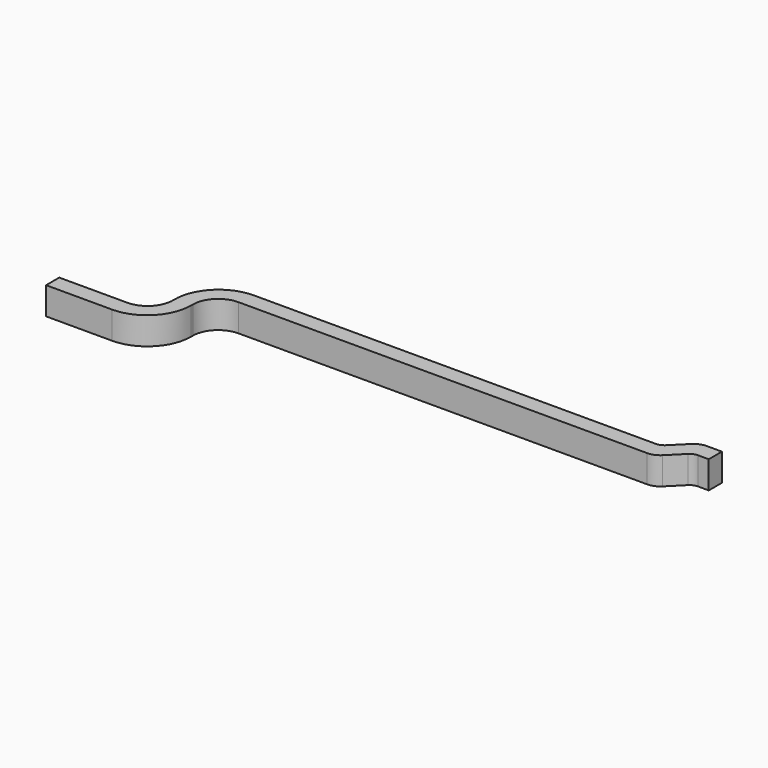
from build123d import *

# Parameters (mm, degrees)
PAD_DEPTH = 0.125


with BuildPart() as part:
    # Sketch → Pad (new body, symmetric)
    with BuildSketch(Plane.XY):
        with BuildLine():
            Line((0, 0), (0.6, 0))
            ThreePointArc((0.6, 0), (0.882843, 0.117157), (1, 0.4))
            Line((1, 0.419076), (1, 0.4))
            ThreePointArc((1.230924, 0.65), (1.067636, 0.582364), (1, 0.419076))
            Line((4.95, 0.65), (1.230924, 0.65))
            ThreePointArc((4.95, 0.65), (5.007403, 0.661418), (5.056066, 0.693934))
            Line((5.056066, 0.693934), (5.182843, 0.820711))
            ThreePointArc((5.253553, 0.85), (5.215285, 0.842388), (5.182843, 0.820711))
            Line((5.253553, 0.85), (5.35, 0.85))
            Line((5.35, 0.85), (5.35, 1))
            Line((5.35, 1), (5.212132, 1))
            ThreePointArc((5.212132, 1), (5.15473, 0.988582), (5.106066, 0.956066))
            Line((4.979289, 0.829289), (5.106066, 0.956066))
            ThreePointArc((4.908579, 0.8), (4.946847, 0.807612), (4.979289, 0.829289))
            Line((1.249817, 0.8), (4.908579, 0.8))
            ThreePointArc((1.249817, 0.8), (0.96273, 0.678534), (0.85, 0.387906))
            ThreePointArc((0.619181, 0.15), (0.78492, 0.220124), (0.85, 0.387906))
            Line((0.619181, 0.15), (0, 0.15))
            Line((0, 0.15), (0, 0))
        make_face()
    extrude(amount=PAD_DEPTH, both=True)


solid = part.part
